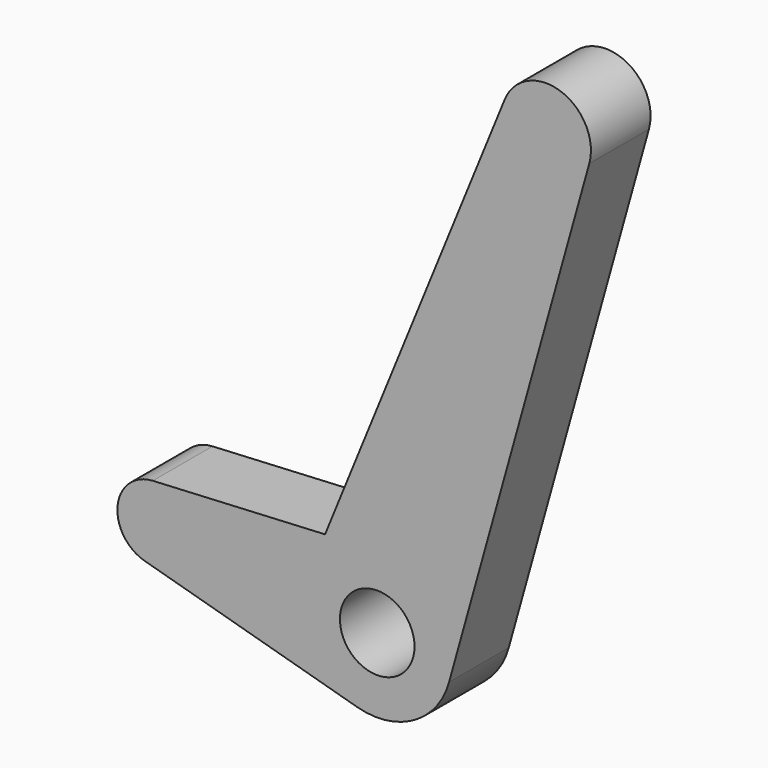
from build123d import *

# Parameters (mm, degrees)
F0_R     = 5
F1_DEPTH = 10


with BuildPart() as f1:
    # F0 (on Front) → F1 (new body)
    with BuildSketch(Plane.XZ):
        with BuildLine():
            Line((-31.181621, -1.645157), (-2.698993, -9.628886))
            ThreePointArc((-2.698993, -9.628886), (4.904444, -8.714725), (9.631525, -2.689558))
            Line((9.631525, -2.689558), (28.427665, 64.620955))
            ThreePointArc((28.427665, 64.620955), (24.590071, 71.911949), (17.0917, 68.497254))
            Line((17.0917, 68.497254), (-6.991646, 9.346509))
            Line((-6.991646, 9.346509), (-30.088057, 8.162732))
            ThreePointArc((-30.088057, 8.162732), (-34.801331, 3.723345), (-31.181621, -1.645157))
        make_face()
        Circle(F0_R, mode=Mode.SUBTRACT)
    extrude(amount=F1_DEPTH)


solid = f1.part
